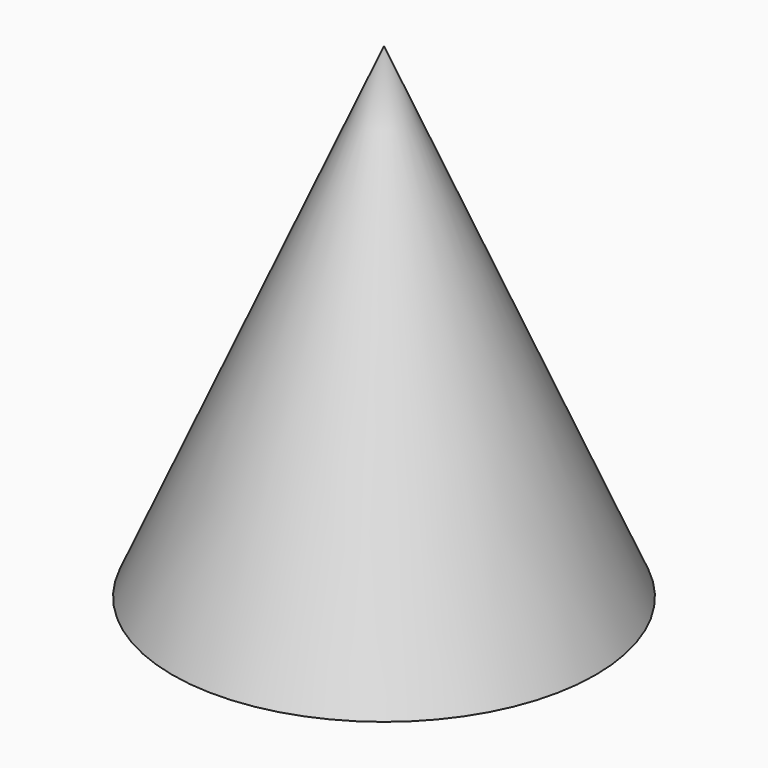
from build123d import *


with BuildPart() as f1:
    # F0 (on Front) → F1 (revolve)
    with BuildSketch(Plane.XZ):
        Polygon((0, 137.477), (0, 0), (60, 0), align=None)
    revolve(axis=Axis((0, 0, 68.7385), (0, 0, 1)))

    # F2 (on Front) → F3 (revolve, cut)
    with BuildSketch(Plane.XZ):
        with BuildLine():
            Line((40, 0), (0, 0))
            Line((0, 0), (0, -40))
            ThreePointArc((0, -40), (28.284271, -28.284271), (40, 0))
        make_face()
        with BuildLine():
            Line((0, 40), (0, 0))
            Line((0, 0), (40, 0))
            ThreePointArc((40, 0), (28.284271, 28.284271), (0, 40))
        make_face()
    revolve(axis=Axis((0, 0, -20), (0, 0, -1)), mode=Mode.SUBTRACT)


solid = f1.part
